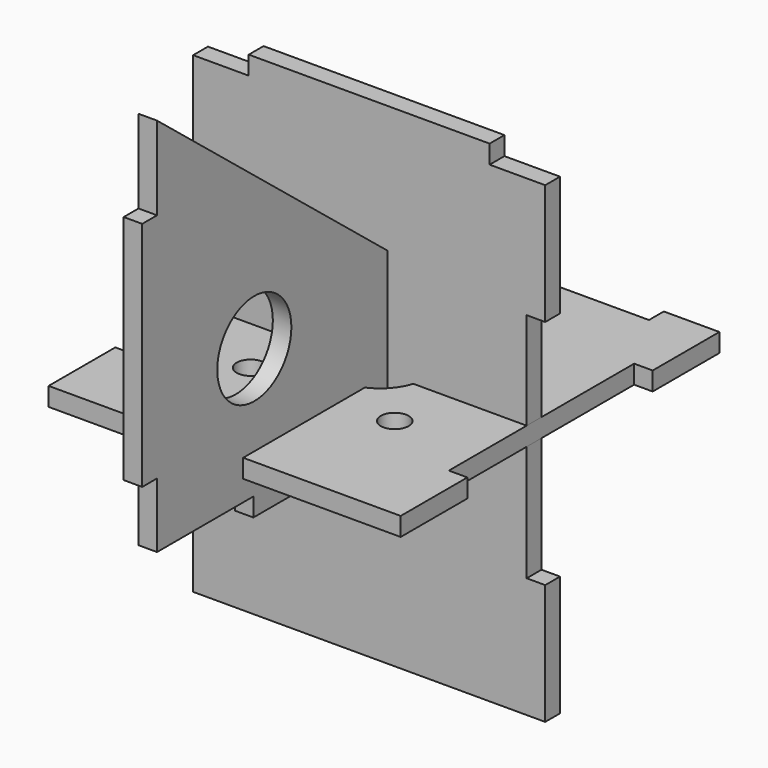
from build123d import *

# Parameters (mm, degrees)
F1_DEPTH = 2
F6_R     = 1.5
F6_R_2   = 5
F7_DEPTH = 2
F8_R     = 5
F9_DEPTH = 2


with BuildPart() as f1:
    # F0 (on Front) → F1 (new body)
    with BuildSketch(Plane.XZ):
        Polygon((19, 12.5), (19, 25.5), (13, 25.5), (13, 27.5), (-13, 27.5), (-13, 25.5), (-19, 25.5), (-19, 12.5), (-17, 12.5), (-17, -12.5), (-19, -12.5), (-19, -25.5), (19, -25.5), (19, -12.5), (17, -12.5), (17, 12.5), align=None)
    extrude(amount=F1_DEPTH)


with BuildPart() as f2_1:
    # F2: copy of F1
    add(f1.part)


with BuildPart() as f4_1:
    # F4: copy of F1
    add(f1.part)


with BuildPart() as f7:
    # F6 (on Top) → F7 (new body)
    with BuildSketch(Plane.XY):
        Polygon((19, 12.5), (19, 21.5), (13, 21.5), (13, 19.5), (-13, 19.5), (-13, 21.5), (-19, 21.5), (-19, 12.5), (-17, 12.5), (-17, -12.5), (-19, -12.5), (-19, -21.5), (19, -21.5), (19, -12.5), (17, -12.5), (17, 12.5), align=None)
        with Locations((-7.778175, -8.278175)):
            Circle(F6_R, mode=Mode.SUBTRACT)
        with Locations((7.778175, -8.278175)):
            Circle(F6_R, mode=Mode.SUBTRACT)
        with Locations((0, -0.5)):
            Circle(F6_R_2, mode=Mode.SUBTRACT)
        with Locations((-7.778175, 7.278175)):
            Circle(F6_R, mode=Mode.SUBTRACT)
        with Locations((7.778175, 7.278175)):
            Circle(F6_R, mode=Mode.SUBTRACT)
    extrude(amount=F7_DEPTH)


with BuildPart() as f9:
    # F8 (on Right) → F9 (new body)
    with BuildSketch(Plane.YZ):
        Polygon((17.878243, -2.23831), (-33.121757, 38.76169), (-33.121757, 29.76169), (-35.121757, 29.76169), (-35.121757, 4.76169), (-33.121757, 4.76169), (-33.121757, -2.23831), (-20.121757, -2.23831), (-20.121757, -4.23831), (4.878243, -4.23831), (4.878243, -2.23831), align=None)
        with Locations((-19.997433, 11.76169)):
            Circle(F8_R, mode=Mode.SUBTRACT)
    extrude(amount=F9_DEPTH)


solid = Compound([f1.part, f7.part, f9.part])
